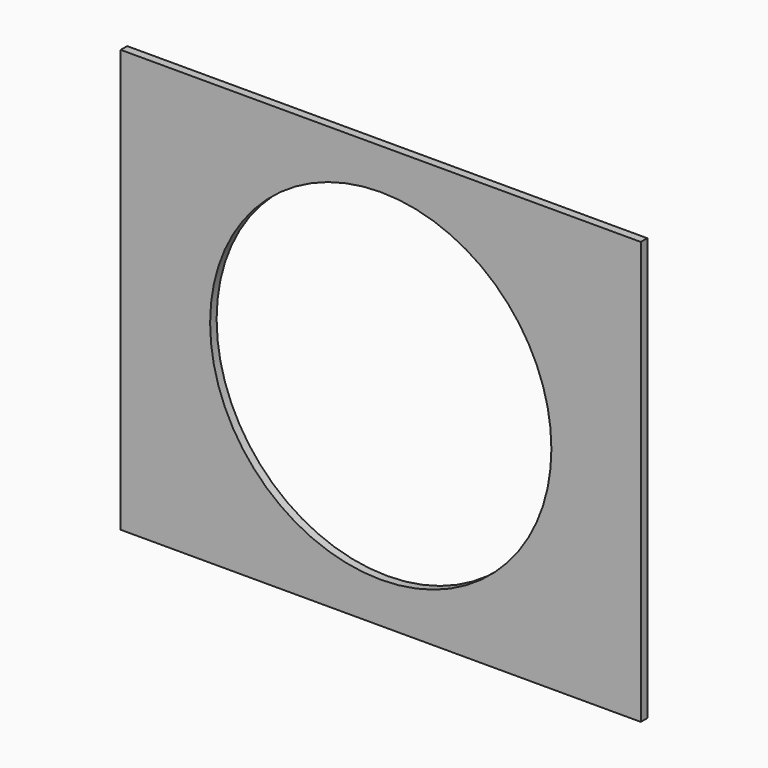
from build123d import *

# Parameters (mm, degrees)
F0_W     = 203.2
F0_H     = 165.1
F1_DEPTH = 3.175
F2_R     = 66.675
F3_DEPTH = 12.7


with BuildPart() as f1:
    # F0 (on Front) → F1 (new body)
    with BuildSketch(Plane.XZ):
        Rectangle(F0_W, F0_H)
    extrude(amount=F1_DEPTH)

    # F2 (on face) → F3 (cut, symmetric)
    with BuildSketch(Plane.XZ.offset(3.175)):
        Circle(F2_R)
    extrude(amount=F3_DEPTH, both=True, mode=Mode.SUBTRACT)


solid = f1.part
